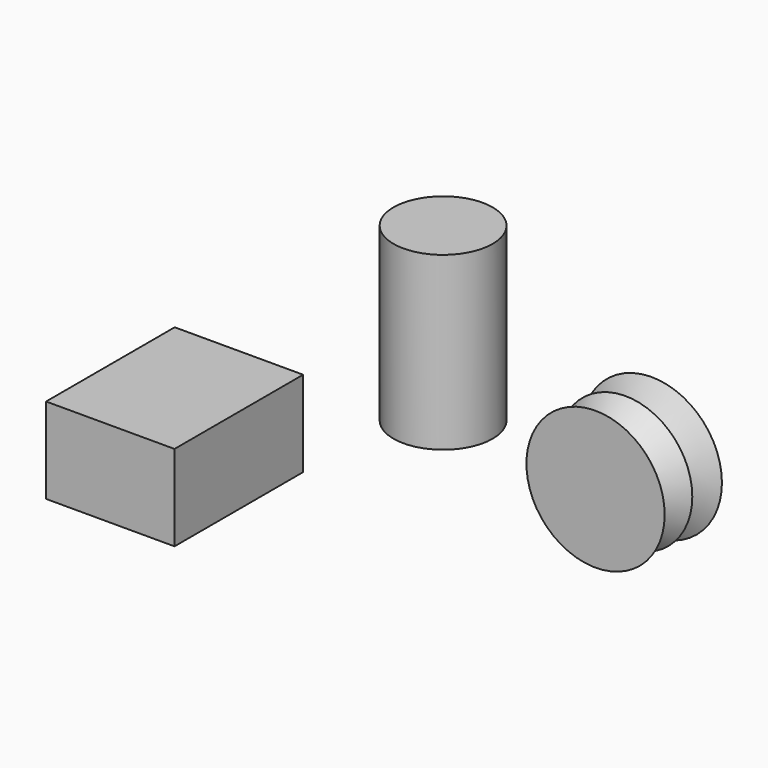
from build123d import *

# Parameters (mm, degrees)
F0_W     = 38.029844
F0_H     = 47.606282
F1_DEPTH = 25.4
F2_R     = 14.676864
F3_DEPTH = 50.8


with BuildPart() as f1:
    # F0 (on Top) → F1 (new body)
    with BuildSketch(Plane.XY):
        with Locations((-47.908711, -23.803141)):
            Rectangle(F0_W, F0_H)
    extrude(amount=F1_DEPTH)


with BuildPart() as f3:
    # F2 (on Top) → F3 (new body)
    with BuildSketch(Plane.XY):
        with Locations((-19.791268, 40.429786)):
            Circle(F2_R)
    extrude(amount=F3_DEPTH)


with BuildPart() as f5:
    # F4 (on Top) → F5 (revolve)
    with BuildSketch(Plane.XY):
        Polygon((41.908443, 51.167279), (50.030235, 56.365225), (29.238449, 56.365225), (29.238449, 35.573442), (49.70536, 35.573442), (43.852812, 40.868607), (49.055621, 46.619076), align=None)
    revolve(axis=Axis((29.238449, 45.969333, 0), (0, -1, 0)))


solid = Compound([f1.part, f3.part, f5.part])
